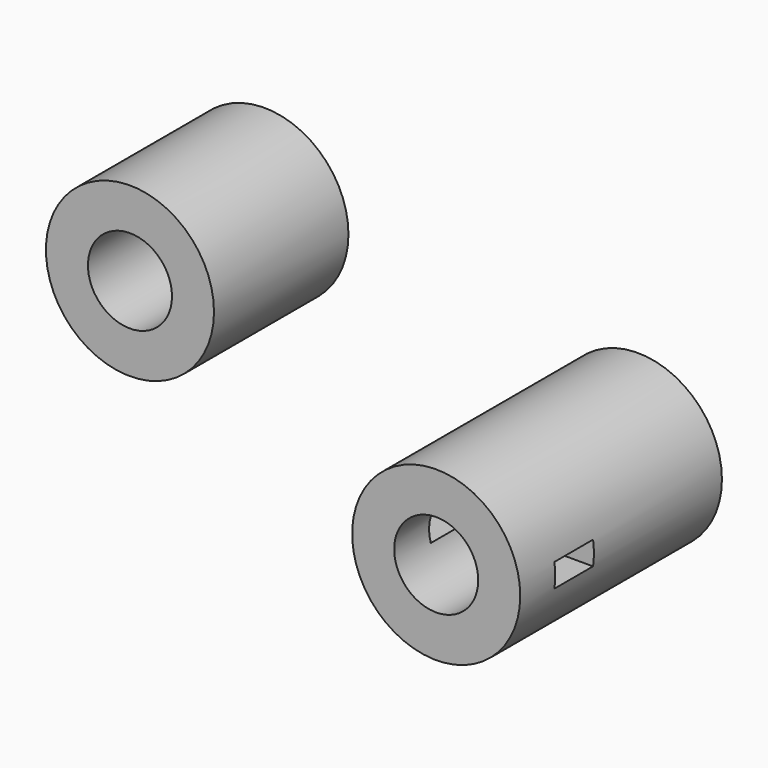
from build123d import *

# Parameters (mm, degrees)
F0_R     = 12.7
F0_R_2   = 6.35
F1_DEPTH = 19.05
F2_R     = 12.7
F2_R_2   = 6.35
F3_DEPTH = 25.4
F4_W     = 7.309555
F4_H     = 3.556
F5_DEPTH = 12.7


with BuildPart() as f1:
    # F0 (on Front) → F1 (new body, symmetric)
    with BuildSketch(Plane.XZ):
        Circle(F0_R)
        Circle(F0_R_2, mode=Mode.SUBTRACT)
    extrude(amount=F1_DEPTH, both=True)

    # F4 (on Right) → F5 (cut, symmetric)
    with BuildSketch(Plane.YZ):
        with Locations((-8.794408, 0)):
            Rectangle(F4_W, F4_H)
    extrude(amount=F5_DEPTH, both=True, mode=Mode.SUBTRACT)


with BuildPart() as f3:
    # F2 (on Front) → F3 (new body)
    with BuildSketch(Plane.XZ):
        with Locations((-41.199893, 26.956774)):
            Circle(F2_R)
        with Locations((-41.199893, 26.956774)):
            Circle(F2_R_2, mode=Mode.SUBTRACT)
    extrude(amount=F3_DEPTH)


solid = Compound([f1.part, f3.part])
